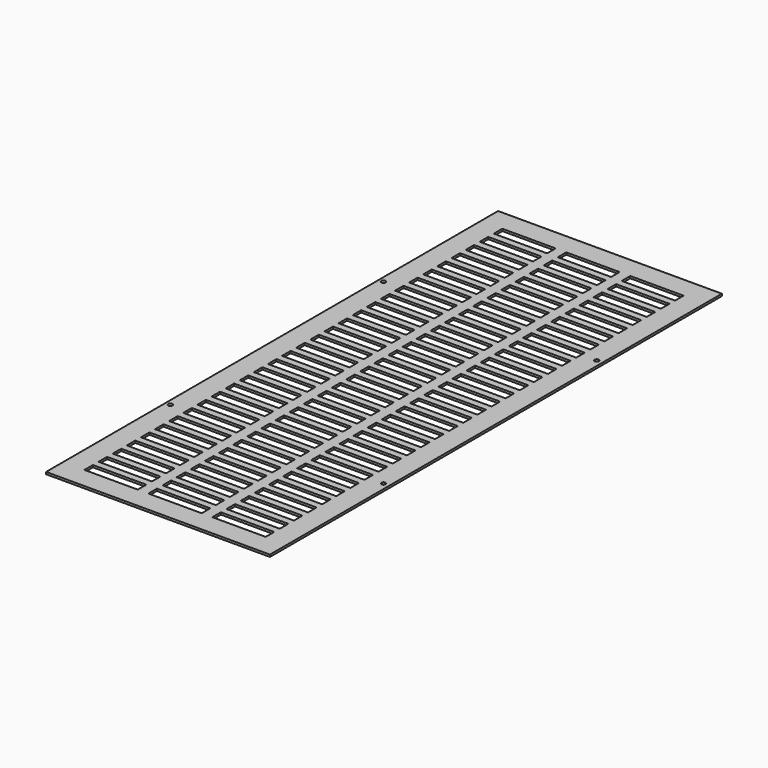
from build123d import *

# Parameters (mm, degrees)
SKETCH_W            = 210
SKETCH_H            = 530
PAD_DEPTH           = 2
SKETCH001_R         = 2
POCKET_DEPTH        = 5
SKETCH002_W         = 50
SKETCH002_H         = 10
POCKET001_DEPTH     = 5
LINEARPATTERN_COUNT = 30
LINEARPATTERN_PITCH = 16.551724


with BuildPart() as part:
    # Sketch → Pad (new body)
    with BuildSketch(Plane.XY):
        with Locations((-5.054385, -5.880929)):
            Rectangle(SKETCH_W, SKETCH_H)
    extrude(amount=PAD_DEPTH)

    # Sketch001 → Pocket (cut)
    with BuildSketch(Plane.XY.offset(2)):
        with Locations((-105.554385, 119.119071)):
            Circle(SKETCH001_R)
        with Locations((-105.554385, -130.880929)):
            Circle(SKETCH001_R)
        with Locations((94.445615, -130.880929)):
            Circle(SKETCH001_R)
        with Locations((94.445615, 119.119071)):
            Circle(SKETCH001_R)
    extrude(amount=-POCKET_DEPTH, mode=Mode.SUBTRACT)

    # Sketch002 → Pocket001 (cut)
    with BuildSketch(Plane.XY.offset(2)):
        with Locations((-65.054385, 234.119071)):
            Rectangle(SKETCH002_W, SKETCH002_H)
        with Locations((54.945615, 234.119071)):
            Rectangle(SKETCH002_W, SKETCH002_H)
        with Locations((-5.054385, 234.119071)):
            Rectangle(SKETCH002_W, SKETCH002_H)
    pocket001 = extrude(amount=-POCKET001_DEPTH, mode=Mode.SUBTRACT)

    # LinearPattern: Pocket001 ×30
    with Locations(*[(0, -i * LINEARPATTERN_PITCH, 0) for i in range(1, LINEARPATTERN_COUNT)]):
        add(pocket001, mode=Mode.SUBTRACT)


solid = part.part
